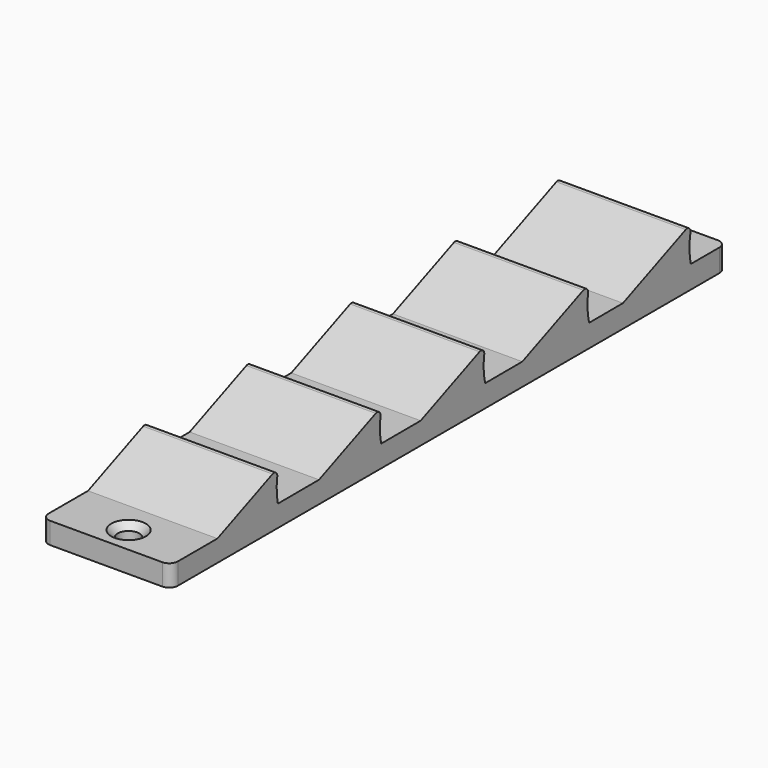
from build123d import *

# Parameters (mm, degrees)
F1_DEPTH       = 30
F2_R           = 2
F3_R           = 1
F5_D           = 5
F5_CSINK_D     = 8
F5_CSINK_ANGLE = 90
F7_D           = 5
F7_CSINK_D     = 8
F7_CSINK_ANGLE = 90


with BuildPart() as f1:
    # F0 (on Right) → F1 (new body)
    with BuildSketch(Plane.YZ):
        with BuildLine():
            Line((-114.335611, 1.639002), (-103.282312, 1.639002))
            Line((-103.282312, 1.639002), (-103.19238, 1.639002))
            Line((-103.19238, 1.639002), (36.717688, 1.639002))
            Line((36.717688, 1.639002), (46.717688, 1.639002))
            Line((46.717688, 1.639002), (46.717688, 5.639002))
            Line((46.717688, 5.639002), (46.717688, 6.883289))
            Line((46.717688, 6.883289), (36.389513, 6.883289))
            ThreePointArc((36.389513, 6.883289), (36.026758, 11.097664), (36.776017, 15.260735))
            Line((36.776017, 15.260735), (16.717688, 6.883289))
            Line((16.717688, 6.883289), (6.915737, 6.856559))
            ThreePointArc((6.915737, 6.856559), (6.430977, 10.892172), (6.974065, 14.92035))
            Line((6.974065, 14.92035), (-12.459779, 6.803723))
            Line((-12.459779, 6.803723), (-23.238242, 6.77433))
            ThreePointArc((-23.238242, 6.77433), (-23.658847, 10.684605), (-23.117268, 14.579968))
            Line((-23.117268, 14.579968), (-41.928537, 6.723361))
            Line((-41.928537, 6.723361), (-53.387725, 6.692112))
            ThreePointArc((-53.387725, 6.692112), (-53.747579, 10.476515), (-53.208595, 14.239585))
            Line((-53.208595, 14.239585), (-71.397287, 6.643))
            Line((-71.397287, 6.643), (-83.343368, 6.610423))
            ThreePointArc((-83.343368, 6.610423), (-83.671143, 10.325154), (-83.134051, 14.015437))
            Line((-83.134051, 14.015437), (-100.864061, 6.610423))
            Line((-100.864061, 6.610423), (-114.335611, 6.610423))
            Line((-114.335611, 6.610423), (-114.335611, 1.639002))
        make_face()
    extrude(amount=F1_DEPTH)

    # F2
    f2_edges = [f1.edges().sort_by_distance(p)[0] for p in [
        (0, -114.335611, 4.124713),
        (30, -114.335611, 4.124713),
        (0, 46.717688, 4.261146),
        (30, 46.717688, 4.261146),
    ]]
    fillet(f2_edges, radius=F2_R)

    # F3
    f3_edges = [f1.edges().sort_by_distance(p)[0] for p in [
        (15, 36.776017, 15.260735),
        (15, 6.974065, 14.92035),
        (15, -23.117268, 14.579968),
        (15, -53.208595, 14.239585),
        (15, -83.134051, 14.015437),
    ]]
    fillet(f3_edges, radius=F3_R)

    # F5 (through all)
    with Locations(Plane.XY.offset(6.610423)):
        with Locations((15.335711, -108.282417)):
            CounterSinkHole(F5_D / 2, F5_CSINK_D / 2, counter_sink_angle=F5_CSINK_ANGLE)

    # F7 (through all)
    with Locations(Plane.XY.offset(6.883289)):
        with Locations((15.114769, 41.508552)):
            CounterSinkHole(F7_D / 2, F7_CSINK_D / 2, counter_sink_angle=F7_CSINK_ANGLE)


solid = f1.part
